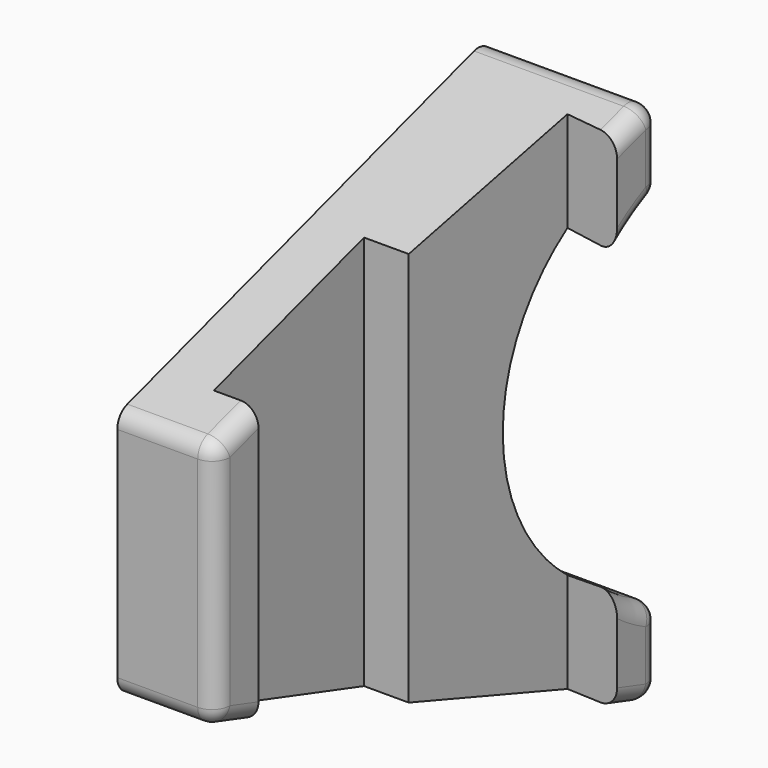
from build123d import *

# Parameters (mm, degrees)
F1_DEPTH = 15
F3_DEPTH = 9.3644707295
F4_R     = 1
F5_R     = 1


with BuildPart() as f1:
    # F0 (on Top) → F1 (new body, symmetric)
    with BuildSketch(Plane.XY):
        Polygon((0, 1.8765421212), (0.8748866353, 11.8765421212), (3.8634707295, 11.6150748929), (3.8634707295, 14.6150748929), (-5.5, 14.6150748929), (-5.5, -11.6234578788), (0, -11.6234578788), (0, -8.6234578788), (-2.5, -8.6234578788), (-2.5, 1.8765421212), align=None)
    extrude(amount=F1_DEPTH, both=True)

    # F2 (on face) → F3 (cut, through all)
    with BuildSketch(Plane(origin=(-5.5, 0, 0), x_dir=(0, -1, 0), z_dir=(-1, 0, 0))):
        Polygon((11.6234578788, -15), (11.6234578788, -6.8473624997), (-14.6150748929, -15), align=None)
        Polygon((11.6234578788, 15), (-14.6150748929, 15), (11.6234578788, 6.8473624997), align=None)
        with BuildLine():
            ThreePointArc((-14.6150748929, -10.1750748602), (-7.8033444248, 0), (-14.6150748929, 10.1750748602))
            Line((-14.6150748929, 10.1750748602), (-14.6150748929, -10.1750748602))
        make_face()
    extrude(amount=-F3_DEPTH, mode=Mode.SUBTRACT)

    # F4
    f4_edges = [f1.edges().sort_by_distance(p)[0] for p in [
        (-0.818265, 14.615075, 15),
        (-0.818265, 14.615075, -10.175075),
        (-0.818265, 14.615075, 10.175075),
        (-0.818265, 14.615075, -15),
        (-2.75, -11.623458, -6.847362),
        (-2.75, -11.623458, 6.847362),
    ]]
    fillet(f4_edges, radius=F4_R)

    # F5
    f5_edges = [f1.edges().sort_by_distance(p)[0] for p in [
        (3.863471, 14.615075, -12.232986),
        (3.863471, 14.615075, 12.232986),
        (0, -11.623458, 0),
    ]]
    fillet(f5_edges, radius=F5_R)


solid = f1.part
